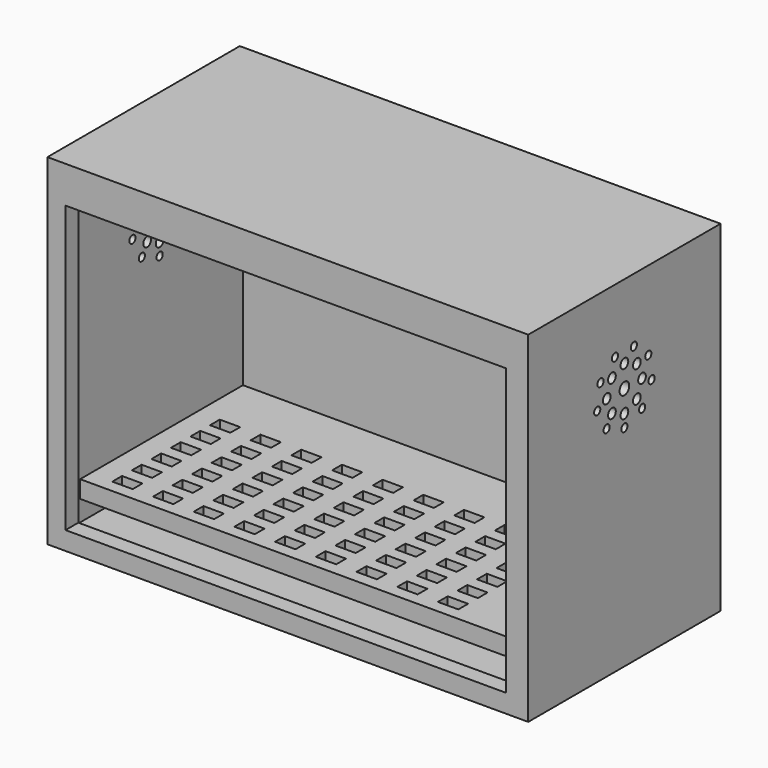
from build123d import *

# Parameters (mm, degrees)
F0_W      = 300
F0_H      = 150
F1_DEPTH  = 200
F2_T      = -10
F3_W      = 274.746329
F3_H      = 178.25803
F4_DEPTH  = 25.4
F5_W      = 50.8
F5_H      = 38.1
F6_DEPTH  = 25.4
F7_R      = 3.752867
F7_R_2    = 3.006184
F7_R_3    = 2.404576
F8_DEPTH  = 300.001
F9_W      = 300
F9_H      = 150
F10_DEPTH = 12.7
F11_W     = 280
F11_H     = 10.83375
F12_DEPTH = 127
F13_W     = 12.7
F13_H     = 7.62
F14_DEPTH = 12.7


with BuildPart() as f1:
    # F0 (on Top) → F1 (new body)
    with BuildSketch(Plane.XY):
        Rectangle(F0_W, F0_H)
    extrude(amount=F1_DEPTH)

    # F2
    f2_openings = [f1.faces().sort_by_distance(p)[0] for p in [
        (0, 0, 200),
    ]]
    offset(amount=F2_T, openings=f2_openings)

    # F3 (on face) → F4 (cut)
    with BuildSketch(Plane.XZ.offset(75)):
        with Locations((-1.362831, 100.604341)):
            Rectangle(F3_W, F3_H)
    extrude(amount=-F4_DEPTH, mode=Mode.SUBTRACT)

    # F5 (on face) → F6 (cut)
    with BuildSketch(Plane(origin=(0, 75, 0), x_dir=(-1, 0, 0), z_dir=(0, 1, 0))):
        with Locations((-86.5, 142.85)):
            Rectangle(F5_W, F5_H)
        with Locations((86.5, 142.85)):
            Rectangle(F5_W, F5_H)
    extrude(amount=-F6_DEPTH, mode=Mode.SUBTRACT)

    # F7 (on face) → F8 (cut, through all)
    with BuildSketch(Plane.YZ.offset(150)):
        with Locations((0, 152.654558)):
            Circle(F7_R)
        with Locations((0, 138.902575)):
            Circle(F7_R_2)
        with Locations((9.724121, 142.930438)):
            Circle(F7_R_2)
        with Locations((13.751984, 152.654558)):
            Circle(F7_R_2)
        with Locations((9.724121, 162.378679)):
            Circle(F7_R_2)
        with Locations((0, 166.406542)):
            Circle(F7_R_2)
        with Locations((-9.724121, 162.378679)):
            Circle(F7_R_2)
        with Locations((-13.751984, 152.654558)):
            Circle(F7_R_2)
        with Locations((-9.724121, 142.930438)):
            Circle(F7_R_2)
        with Locations((0, 131.109789)):
            Circle(F7_R_3)
        with Locations((13.848711, 136.150308)):
            Circle(F7_R_3)
        with Locations((21.217456, 148.913348)):
            Circle(F7_R_3)
        with Locations((18.658318, 163.426943)):
            Circle(F7_R_3)
        with Locations((7.368745, 172.900019)):
            Circle(F7_R_3)
        with Locations((-7.368745, 172.900019)):
            Circle(F7_R_3)
        with Locations((-18.658318, 163.426943)):
            Circle(F7_R_3)
        with Locations((-21.217456, 148.913348)):
            Circle(F7_R_3)
        with Locations((-13.848711, 136.150308)):
            Circle(F7_R_3)
    extrude(amount=-F8_DEPTH, mode=Mode.SUBTRACT)

    # F9 (on face) → F10 (join)
    with BuildSketch(Plane.XY.offset(200)):
        Rectangle(F9_W, F9_H)
    extrude(amount=F10_DEPTH)

    # F11 (on face) → F12 (join)
    with BuildSketch(Plane.XZ.offset(-65)):
        with Locations((0, 28.336185)):
            Rectangle(F11_W, F11_H)
    extrude(amount=F12_DEPTH)

    # F13 (on face) → F14 (cut)
    with BuildSketch(Plane.XY.offset(33.75306)):
        with Locations((-119.801159, -50.418168)):
            Rectangle(F13_W, F13_H)
        with Locations((-119.801159, -35.178168)):
            Rectangle(F13_W, F13_H)
        with Locations((-119.801159, -19.938168)):
            Rectangle(F13_W, F13_H)
        with Locations((-119.801159, -4.698168)):
            Rectangle(F13_W, F13_H)
        with Locations((-119.801159, 10.541832)):
            Rectangle(F13_W, F13_H)
        with Locations((-119.801159, 25.781832)):
            Rectangle(F13_W, F13_H)
        with Locations((-94.401159, -50.418168)):
            Rectangle(F13_W, F13_H)
        with Locations((-94.401159, -35.178168)):
            Rectangle(F13_W, F13_H)
        with Locations((-94.401159, -19.938168)):
            Rectangle(F13_W, F13_H)
        with Locations((-94.401159, -4.698168)):
            Rectangle(F13_W, F13_H)
        with Locations((-94.401159, 10.541832)):
            Rectangle(F13_W, F13_H)
        with Locations((-94.401159, 25.781832)):
            Rectangle(F13_W, F13_H)
        with Locations((-69.001159, -50.418168)):
            Rectangle(F13_W, F13_H)
        with Locations((-69.001159, -35.178168)):
            Rectangle(F13_W, F13_H)
        with Locations((-69.001159, -19.938168)):
            Rectangle(F13_W, F13_H)
        with Locations((-69.001159, -4.698168)):
            Rectangle(F13_W, F13_H)
        with Locations((-69.001159, 10.541832)):
            Rectangle(F13_W, F13_H)
        with Locations((-69.001159, 25.781832)):
            Rectangle(F13_W, F13_H)
        with Locations((-43.601159, -50.418168)):
            Rectangle(F13_W, F13_H)
        with Locations((-43.601159, -35.178168)):
            Rectangle(F13_W, F13_H)
        with Locations((-43.601159, -19.938168)):
            Rectangle(F13_W, F13_H)
        with Locations((-43.601159, -4.698168)):
            Rectangle(F13_W, F13_H)
        with Locations((-43.601159, 10.541832)):
            Rectangle(F13_W, F13_H)
        with Locations((-43.601159, 25.781832)):
            Rectangle(F13_W, F13_H)
        with Locations((-18.201159, -50.418168)):
            Rectangle(F13_W, F13_H)
        with Locations((-18.201159, -35.178168)):
            Rectangle(F13_W, F13_H)
        with Locations((-18.201159, -19.938168)):
            Rectangle(F13_W, F13_H)
        with Locations((-18.201159, -4.698168)):
            Rectangle(F13_W, F13_H)
        with Locations((-18.201159, 10.541832)):
            Rectangle(F13_W, F13_H)
        with Locations((-18.201159, 25.781832)):
            Rectangle(F13_W, F13_H)
        with Locations((7.198841, -50.418168)):
            Rectangle(F13_W, F13_H)
        with Locations((7.198841, -35.178168)):
            Rectangle(F13_W, F13_H)
        with Locations((7.198841, -19.938168)):
            Rectangle(F13_W, F13_H)
        with Locations((7.198841, -4.698168)):
            Rectangle(F13_W, F13_H)
        with Locations((7.198841, 10.541832)):
            Rectangle(F13_W, F13_H)
        with Locations((7.198841, 25.781832)):
            Rectangle(F13_W, F13_H)
        with Locations((32.598841, -50.418168)):
            Rectangle(F13_W, F13_H)
        with Locations((32.598841, -35.178168)):
            Rectangle(F13_W, F13_H)
        with Locations((32.598841, -19.938168)):
            Rectangle(F13_W, F13_H)
        with Locations((32.598841, -4.698168)):
            Rectangle(F13_W, F13_H)
        with Locations((32.598841, 10.541832)):
            Rectangle(F13_W, F13_H)
        with Locations((32.598841, 25.781832)):
            Rectangle(F13_W, F13_H)
        with Locations((57.998841, -50.418168)):
            Rectangle(F13_W, F13_H)
        with Locations((57.998841, -35.178168)):
            Rectangle(F13_W, F13_H)
        with Locations((57.998841, -19.938168)):
            Rectangle(F13_W, F13_H)
        with Locations((57.998841, -4.698168)):
            Rectangle(F13_W, F13_H)
        with Locations((57.998841, 10.541832)):
            Rectangle(F13_W, F13_H)
        with Locations((57.998841, 25.781832)):
            Rectangle(F13_W, F13_H)
        with Locations((83.398841, -50.418168)):
            Rectangle(F13_W, F13_H)
        with Locations((83.398841, -35.178168)):
            Rectangle(F13_W, F13_H)
        with Locations((83.398841, -19.938168)):
            Rectangle(F13_W, F13_H)
        with Locations((83.398841, -4.698168)):
            Rectangle(F13_W, F13_H)
        with Locations((83.398841, 10.541832)):
            Rectangle(F13_W, F13_H)
        with Locations((83.398841, 25.781832)):
            Rectangle(F13_W, F13_H)
    extrude(amount=-F14_DEPTH, mode=Mode.SUBTRACT)


solid = f1.part
